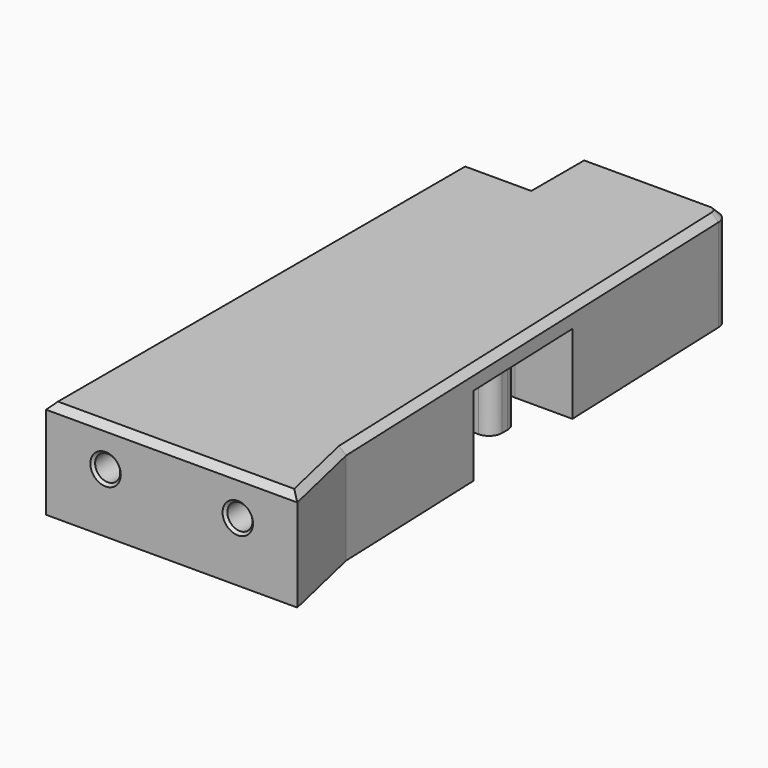
from build123d import *

# Parameters (mm, degrees)
PAD001_DEPTH    = 15
FILLET003_R     = 2
CHAMFER007_SIZE = 1
SKETCH003_R     = 1.9
POCKET001_DEPTH = 7
SKETCH004_W     = 3.5
SKETCH004_H     = 6.5
POCKET002_DEPTH = 10
SKETCH006_R     = 1.95
POCKET004_DEPTH = 7
POCKET006_DEPTH = 12
FILLET005_R     = 2
SKETCH009_W     = 24
SKETCH009_H     = 19
POCKET007_DEPTH = 10
CHAMFER021_SIZE = 0.4
SKETCH011_W     = 11
SKETCH011_H     = 20
POCKET009_DEPTH = 0.75
FILLET006_R     = 2


with BuildPart() as part:
    # Sketch001 → Pad001 (new body)
    with BuildSketch(Plane.XY):
        Polygon((0, 36), (0, -43), (38, -43), (35, -30), (32, 46), (10, 46), (10, 36), align=None)
    extrude(amount=PAD001_DEPTH)

    # Fillet003
    fillet003_edges = [part.edges().sort_by_distance(p)[0] for p in [
        (32, 46, 7.5),
    ]]
    fillet(fillet003_edges, radius=FILLET003_R)

    # Chamfer007
    chamfer007_edges = [part.edges().sort_by_distance(p)[0] for p in [
        (33.537917, 7.039443, 15),
        (31.463432, 45.441834, 15),
        (36.5, -36.5, 15),
        (20.038695, 46, 15),
        (19, -43, 15),
        (10, 41, 15),
        (0, -3.5, 15),
        (5, 36, 15),
    ]]
    chamfer(chamfer007_edges, length=CHAMFER007_SIZE)

    # Sketch003 (on Face10 of Chamfer007) → Pocket001 (cut)
    with BuildSketch(Plane.XZ.offset(43)):
        with Locations((9, 9)):
            Circle(SKETCH003_R)
        with Locations((29, 9)):
            Circle(SKETCH003_R)
    extrude(amount=-POCKET001_DEPTH, mode=Mode.SUBTRACT)

    # Sketch004 (on Face4 of Pocket001) → Pocket002 (cut)
    with BuildSketch(Plane(origin=(0, 0, 0), x_dir=(1, 0, 0), z_dir=(0, 0, -1))):
        with Locations((13.75, -40.75)):
            Rectangle(SKETCH004_W, SKETCH004_H)
    extrude(amount=-POCKET002_DEPTH, mode=Mode.SUBTRACT)

    # Sketch006 (on Face4 of Pocket002) → Pocket004 (cut)
    with BuildSketch(Plane(origin=(0, 0, 0), x_dir=(1, 0, 0), z_dir=(0, 0, -1))):
        with Locations((19, 36)):
            Circle(SKETCH006_R)
        with Locations((7, -29)):
            Circle(SKETCH006_R)
        with Locations((26, -40)):
            Circle(SKETCH006_R)
    extrude(amount=-POCKET004_DEPTH, mode=Mode.SUBTRACT)

    # Sketch008 (on Face4 of Pocket004) → Pocket006 (cut)
    with BuildSketch(Plane(origin=(0, 0, 0), x_dir=(1, 0, 0), z_dir=(0, 0, -1))):
        with BuildLine():
            Line((0, 5), (0, -5))
            Line((0, -5), (29, -5))
            Line((29, -5), (29, -10))
            Line((29, -10), (17.5, -10))
            Line((17.5, -10), (17.5, -17.080658))
            ThreePointArc((17.5, -17.080658), (20, -32.68), (22.5, -17.080658))
            Line((22.5, -15), (22.5, -17.080658))
            Line((34, -15), (22.5, -15))
            Line((34, 5), (34, -15))
            Line((0, 5), (34, 5))
        make_face()
    extrude(amount=-POCKET006_DEPTH, mode=Mode.SUBTRACT)

    # Fillet005
    fillet005_edges = [part.edges().sort_by_distance(p)[0] for p in [
        (29, 5, 6),
        (29, 10, 6),
        (17.5, 10, 6),
        (17.5, 17.080658, 6),
        (22.5, 15, 6),
    ]]
    fillet(fillet005_edges, radius=FILLET005_R)

    # Sketch009 (on Face21 of Fillet005) → Pocket007 (cut)
    with BuildSketch(Plane(origin=(0, 0, 0), x_dir=(1, 0, 0), z_dir=(0, 0, -1))):
        with Locations((17, 19.5)):
            Rectangle(SKETCH009_W, SKETCH009_H)
    extrude(amount=-POCKET007_DEPTH, mode=Mode.SUBTRACT)

    # Chamfer021
    chamfer021_edges = [part.edges().sort_by_distance(p)[0] for p in [
        (5.05, 29, 0),
        (12, 40.75, 0),
        (13.75, 37.5, 0),
        (15.5, 40.75, 0),
        (13.75, 44, 0),
        (24.05, 40, 0),
        (17.05, -36, 0),
        (7.1, -43, 9),
        (27.1, -43, 9),
    ]]
    chamfer(chamfer021_edges, length=CHAMFER021_SIZE)

    # Sketch011 (on Face1 of Chamfer021) → Pocket009 (cut)
    with BuildSketch(Plane(origin=(0, 0, 0), x_dir=(1, 0, 0), z_dir=(0, 0, -1))):
        with Locations((8.5, 0)):
            Rectangle(SKETCH011_W, SKETCH011_H)
    extrude(amount=-POCKET009_DEPTH, mode=Mode.SUBTRACT)

    # Fillet006
    fillet006_edges = [part.edges().sort_by_distance(p)[0] for p in [
        (8.5, 5, 0.75),
        (8.5, -5, 0.75),
    ]]
    fillet(fillet006_edges, radius=FILLET006_R)


with BuildPart() as part_1:
    # Body001 placement: moved
    add(part.part.moved(Location((50, 0, 0))))


solid = part_1.part
